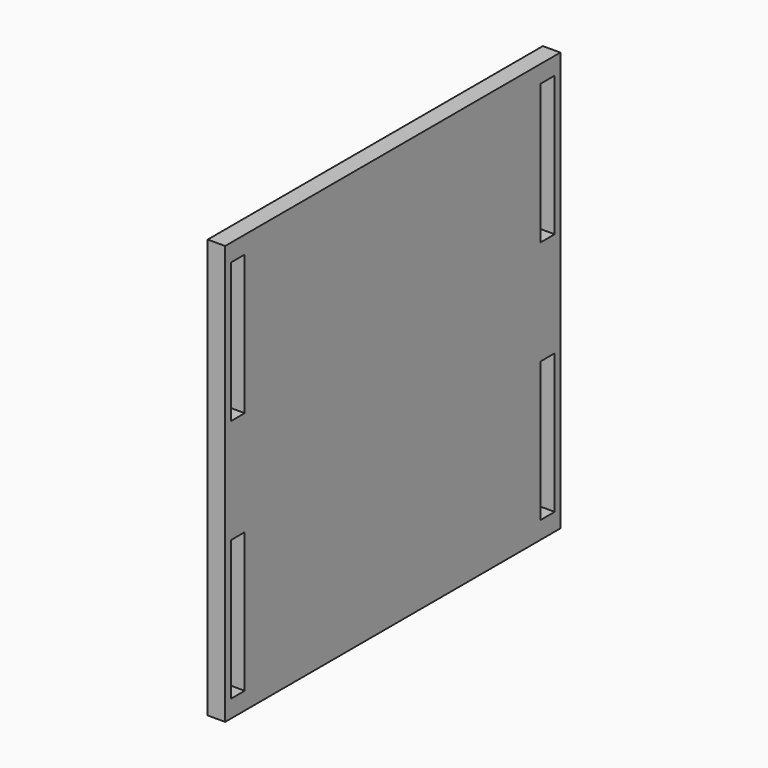
from build123d import *

# Parameters (mm, degrees)
F0_W     = 152.4
F0_H     = 152.4
F1_DEPTH = 6.35
F2_W     = 6.35
F2_H     = 50.8
F3_DEPTH = 25.4


with BuildPart() as f1:
    # F0 (on Right) → F1 (new body)
    with BuildSketch(Plane.YZ):
        Rectangle(F0_W, F0_H)
    extrude(amount=F1_DEPTH)

    # F2 (on face) → F3 (cut)
    with BuildSketch(Plane.YZ.offset(6.35)):
        with Locations((-70.46976, 44.45)):
            Rectangle(F2_W, F2_H)
        with Locations((70.46976, 44.45)):
            Rectangle(F2_W, F2_H)
        with Locations((70.46976, -44.45)):
            Rectangle(F2_W, F2_H)
        with Locations((-70.46976, -44.45)):
            Rectangle(F2_W, F2_H)
    extrude(amount=-F3_DEPTH, mode=Mode.SUBTRACT)


solid = f1.part
